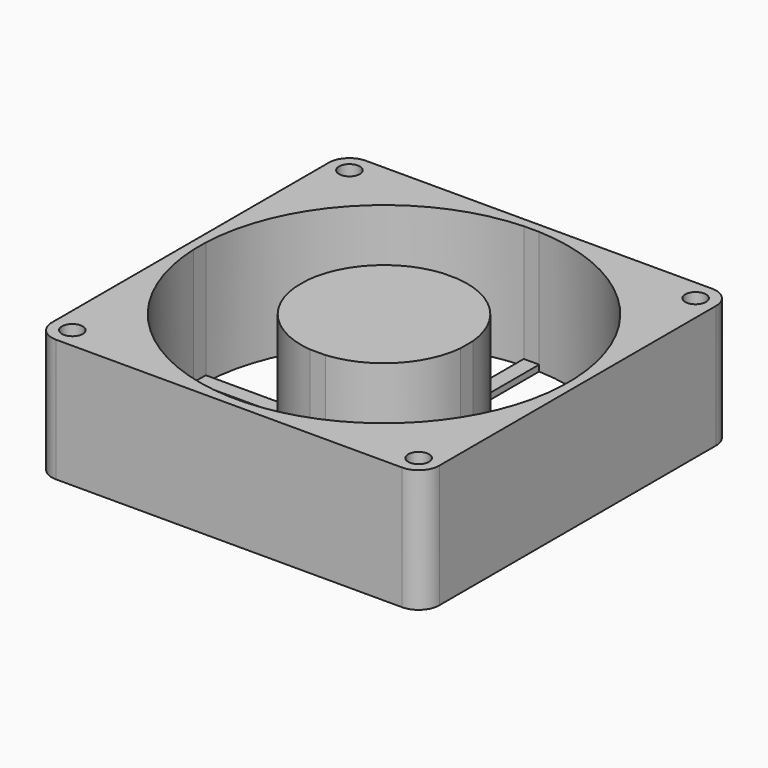
from build123d import *

# Parameters (mm, degrees)
F1_DEPTH = 25.4
F2_D     = 4.2926
F3_W     = 20.9955662917
F3_H     = 3.175
F4_DEPTH = 24.13


with BuildPart() as f1:
    # F0 (on Top) → F1 (new body)
    with BuildSketch(Plane.XY):
        with BuildLine():
            Line((35.7378, 40.005), (-35.7378, 40.005))
            ThreePointArc((-35.7378, 40.005), (-38.7551660567, 38.7551660567), (-40.005, 35.7378))
            Line((-40.005, 35.7378), (-40.005, -35.7378))
            ThreePointArc((-40.005, -35.7378), (-38.7551660567, -38.7551660567), (-35.7378, -40.005))
            Line((-35.7378, -40.005), (35.7378, -40.005))
            ThreePointArc((35.7378, -40.005), (38.7551660567, -38.7551660567), (40.005, -35.7378))
            Line((40.005, -35.7378), (40.005, 35.7378))
            ThreePointArc((40.005, 35.7378), (38.7551660567, 38.7551660567), (35.7378, 40.005))
        make_face()
        with BuildLine():
            ThreePointArc((-1.5875, -38.0669127163), (-26.9407683632, -26.9407683632), (-38.0669127163, -1.5875))
            Line((-38.0669127163, -1.5875), (-17.0713464246, -1.5875))
            ThreePointArc((-17.0713464246, -1.5875), (-12.1233457634, -12.1233457634), (-1.5875, -17.0713464246))
            Line((-1.5875, -17.0713464246), (-1.5875, -38.0669127163))
        make_face(mode=Mode.SUBTRACT)
        with BuildLine():
            ThreePointArc((1.5849706368, -17.0715814464), (12.1224476132, -12.1242438472), (17.0713464246, -1.5875))
            Line((17.0713464246, -1.5875), (38.0669127163, -1.5875))
            ThreePointArc((38.0669127163, -1.5875), (26.9398733074, -26.9416633893), (1.5849706368, -38.0670181139))
            Line((1.5849706368, -38.0670181139), (1.5849706368, -17.0715814464))
        make_face(mode=Mode.SUBTRACT)
        with BuildLine():
            Line((-17.0713464246, 1.5875), (-38.0669127163, 1.5875))
            ThreePointArc((-38.0669127163, 1.5875), (-26.9407683632, 26.9407683632), (-1.5875, 38.0669127163))
            Line((-1.5875, 38.0669127163), (-1.5875, 17.0713464246))
            ThreePointArc((-1.5875, 17.0713464246), (-12.1233457634, 12.1233457634), (-17.0713464246, 1.5875))
        make_face(mode=Mode.SUBTRACT)
        with BuildLine():
            Line((38.0669127163, 1.5875), (17.0713464246, 1.5875))
            ThreePointArc((17.0713464246, 1.5875), (12.1224476132, 12.1242438472), (1.5849706368, 17.0715814464))
            Line((1.5849706368, 17.0715814464), (1.5849706368, 38.0670181139))
            ThreePointArc((1.5849706368, 38.0670181139), (26.9398733074, 26.9416633893), (38.0669127163, 1.5875))
        make_face(mode=Mode.SUBTRACT)
        with BuildLine():
            Line((35.7378, 40.005), (-35.7378, 40.005))
            ThreePointArc((-35.7378, 40.005), (-38.7551660567, 38.7551660567), (-40.005, 35.7378))
            Line((-40.005, 35.7378), (-40.005, -35.7378))
            ThreePointArc((-40.005, -35.7378), (-38.7551660567, -38.7551660567), (-35.7378, -40.005))
            Line((-35.7378, -40.005), (35.7378, -40.005))
            ThreePointArc((35.7378, -40.005), (38.7551660567, -38.7551660567), (40.005, -35.7378))
            Line((40.005, -35.7378), (40.005, 35.7378))
            ThreePointArc((40.005, 35.7378), (38.7551660567, 38.7551660567), (35.7378, 40.005))
        make_face()
        with BuildLine():
            ThreePointArc((-1.5875, -38.0669127163), (-26.9407683632, -26.9407683632), (-38.0669127163, -1.5875))
            Line((-38.0669127163, -1.5875), (-17.0713464246, -1.5875))
            ThreePointArc((-17.0713464246, -1.5875), (-12.1233457634, -12.1233457634), (-1.5875, -17.0713464246))
            Line((-1.5875, -17.0713464246), (-1.5875, -38.0669127163))
        make_face(mode=Mode.SUBTRACT)
        with BuildLine():
            ThreePointArc((1.5849706368, -17.0715814464), (12.1224476132, -12.1242438472), (17.0713464246, -1.5875))
            Line((17.0713464246, -1.5875), (38.0669127163, -1.5875))
            ThreePointArc((38.0669127163, -1.5875), (26.9398733074, -26.9416633893), (1.5849706368, -38.0670181139))
            Line((1.5849706368, -38.0670181139), (1.5849706368, -17.0715814464))
        make_face(mode=Mode.SUBTRACT)
        with BuildLine():
            Line((-17.0713464246, 1.5875), (-38.0669127163, 1.5875))
            ThreePointArc((-38.0669127163, 1.5875), (-26.9407683632, 26.9407683632), (-1.5875, 38.0669127163))
            Line((-1.5875, 38.0669127163), (-1.5875, 17.0713464246))
            ThreePointArc((-1.5875, 17.0713464246), (-12.1233457634, 12.1233457634), (-17.0713464246, 1.5875))
        make_face(mode=Mode.SUBTRACT)
        with BuildLine():
            Line((38.0669127163, 1.5875), (17.0713464246, 1.5875))
            ThreePointArc((17.0713464246, 1.5875), (12.1224476132, 12.1242438472), (1.5849706368, 17.0715814464))
            Line((1.5849706368, 17.0715814464), (1.5849706368, 38.0670181139))
            ThreePointArc((1.5849706368, 38.0670181139), (26.9398733074, 26.9416633893), (38.0669127163, 1.5875))
        make_face(mode=Mode.SUBTRACT)
    extrude(amount=F1_DEPTH)

    # F2 (through all)
    with Locations(Plane(origin=(0, 0, 0), x_dir=(1, 0, 0), z_dir=(0, 0, -1))):
        with Locations((-35.7505, -35.7505), (35.7505, -35.7505), (35.7505, 35.7505), (-35.7505, 35.7505)):
            Hole(F2_D / 2)

    # F3 (on face) → F4 (cut)
    with BuildSketch(Plane.XY.offset(25.4)):
        with Locations((-27.5691295705, 0)):
            Rectangle(F3_W, F3_H)
        Polygon((1.5849706368, 38.0670181139), (-1.5875, 38.0669127163), (-1.5875, 17.0713464246), (1.5849706368, 17.0715814464), align=None)
        with Locations((27.5691295705, 0)):
            Rectangle(F3_W, F3_H)
        Polygon((1.5849706368, -38.0670181139), (1.5849706368, -17.0715814464), (-1.5875, -17.0713464246), (-1.5875, -38.0669127163), align=None)
    extrude(amount=-F4_DEPTH, mode=Mode.SUBTRACT)


solid = f1.part
